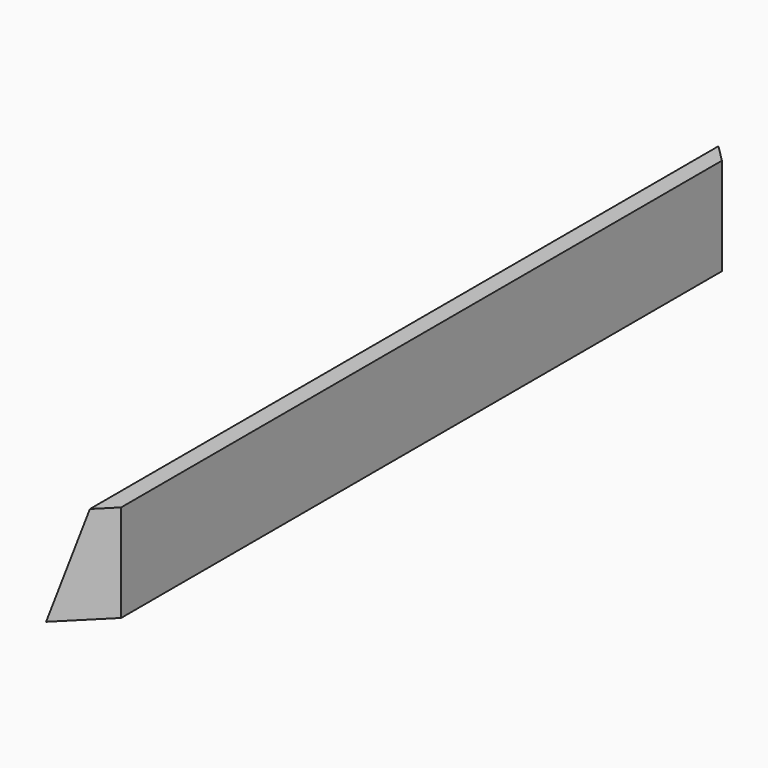
from build123d import *

# Parameters (mm, degrees)
F1_DEPTH = 762
F3_DEPTH = 101.6


with BuildPart() as f1:
    # F0 (on Front) → F1 (new body)
    with BuildSketch(Plane.XZ):
        Polygon((0, -44.45), (0, 44.45), (-15.875, 44.45), (-38.1, -44.45), align=None)
    extrude(amount=F1_DEPTH)

    # F2 (on face) → F3 (cut)
    with BuildSketch(Plane(origin=(0, 0, -44.45), x_dir=(1, 0, 0), z_dir=(0, 0, -1))):
        Polygon((0, 762), (-38.1, 762), (0, 723.9), align=None)
        Polygon((0, 38.1), (-38.1, 0), (0, 0), align=None)
    extrude(amount=-F3_DEPTH, mode=Mode.SUBTRACT)


solid = f1.part
